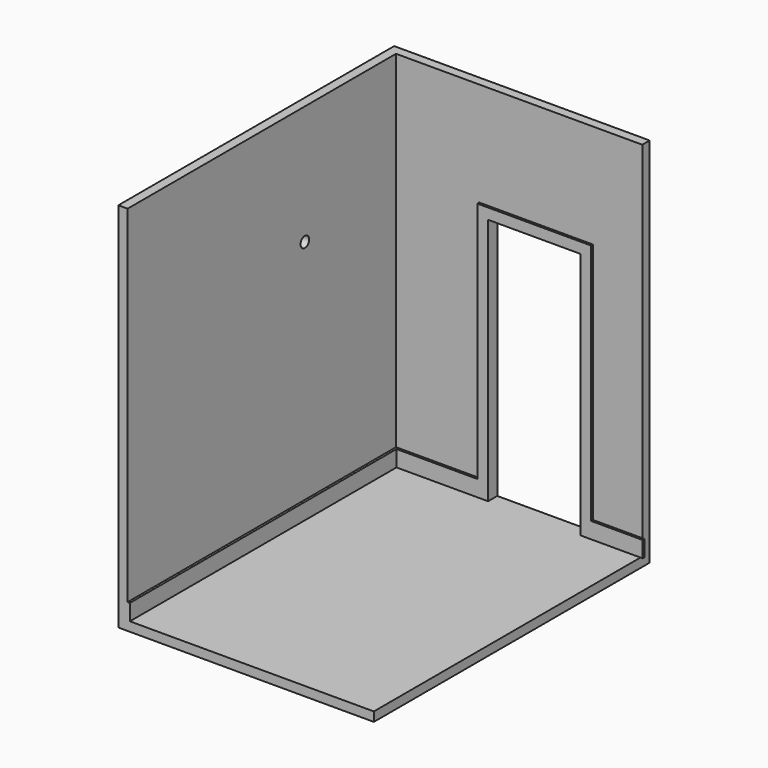
from build123d import *

# Parameters (mm, degrees)
F0_W      = 2768.6
F0_H      = 2990.85
F1_DEPTH  = 76.2
F2_W      = 2108.2
F2_H      = 2990.85
F3_DEPTH  = 76.2
F4_W      = 2108.2
F4_H      = 2844.8
F5_DEPTH  = 76.2
F6_W      = 762
F6_H      = 2044.7
F7_DEPTH  = 76.2
F8_W      = 19.05
F8_H      = 133.35
F9_DEPTH  = 2768.6
F10_W     = 19.05
F10_H     = 133.35
F11_DEPTH = 2032
F12_W     = 939.8
F12_H     = 19.05
F13_DEPTH = 2000.25
F14_DEPTH = 19.05
F15_R     = 44.45
F16_DEPTH = 76.2


with BuildPart() as f1:
    # F0 (on Right) → F1 (new body)
    with BuildSketch(Plane.YZ):
        with Locations((-1384.3, 1495.425)):
            Rectangle(F0_W, F0_H)
    extrude(amount=-F1_DEPTH)

    # F2 (on face) → F3 (join)
    with BuildSketch(Plane(origin=(0, 0, 0), x_dir=(-1, 0, 0), z_dir=(0, 1, 0))):
        with Locations((-977.9, 1495.425)):
            Rectangle(F2_W, F2_H)
    extrude(amount=F3_DEPTH)

    # F4 (on face) → F5 (join)
    with BuildSketch(Plane(origin=(0, 0, 0), x_dir=(1, 0, 0), z_dir=(0, 0, -1))):
        with Locations((977.9, 1346.2)):
            Rectangle(F4_W, F4_H)
    extrude(amount=F5_DEPTH)

    # F6 (on face) → F7 (cut)
    with BuildSketch(Plane.XZ):
        with Locations((1155.7, 1022.35)):
            Rectangle(F6_W, F6_H)
    extrude(amount=-F7_DEPTH, mode=Mode.SUBTRACT)

    # F8 (on face) → F9 (join)
    with BuildSketch(Plane.XZ.offset(2768.6)):
        with Locations((9.525, 66.675)):
            Rectangle(F8_W, F8_H)
    extrude(amount=-F9_DEPTH)

    # F10 (on face) → F11 (join)
    with BuildSketch(Plane.YZ.offset(19.05)):
        with Locations((-9.525, 66.675)):
            Rectangle(F10_W, F10_H)
    extrude(amount=F11_DEPTH)

    # F12 (on face) → F13 (join)
    with BuildSketch(Plane.XY.offset(133.35)):
        with Locations((1155.7, -9.525)):
            Rectangle(F12_W, F12_H)
    extrude(amount=F13_DEPTH)

    # F6 (on face) → F14 (cut)
    with BuildSketch(Plane.XZ):
        with Locations((1155.7, 1022.35)):
            Rectangle(F6_W, F6_H)
    extrude(amount=F14_DEPTH, mode=Mode.SUBTRACT)

    # F15 (on face) → F16 (cut)
    with BuildSketch(Plane.YZ):
        with Locations((-939.8, 2006.6)):
            Circle(F15_R)
    extrude(amount=-F16_DEPTH, mode=Mode.SUBTRACT)


solid = f1.part
